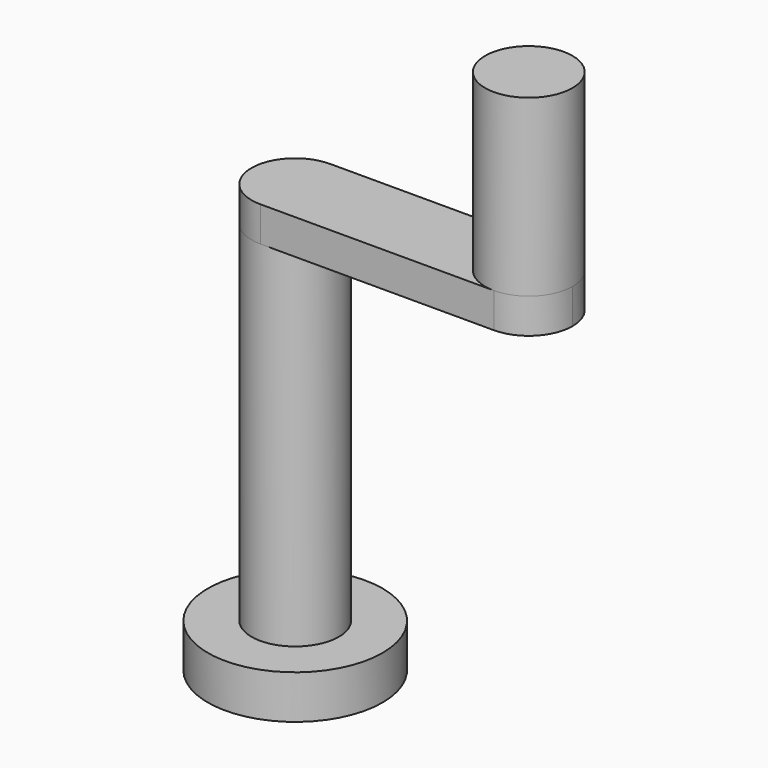
from build123d import *

# Parameters (mm, degrees)
F0_R     = 3.175
F1_DEPTH = 12.7
F2_R     = 6.35
F3_DEPTH = 3.175
F5_DEPTH = 2.54
F6_R     = 3.175
F7_DEPTH = 12.7


with BuildPart() as f1:
    # F0 (on Top) → F1 (new body, symmetric)
    with BuildSketch(Plane.XY):
        Circle(F0_R)
    extrude(amount=F1_DEPTH, both=True)

    # F2 (on face) → F3 (join)
    with BuildSketch(Plane(origin=(0, 0, -12.7), x_dir=(1, 0, 0), z_dir=(0, 0, -1))):
        Circle(F2_R)
    extrude(amount=F3_DEPTH)

    # F4 (on face) → F5 (join)
    with BuildSketch(Plane.XY.offset(12.7)):
        with BuildLine():
            ThreePointArc((16.98045, -3.175), (19.225514, -2.245064), (20.15545, 0))
            ThreePointArc((20.15545, 0), (19.225514, 2.245064), (16.98045, 3.175))
            ThreePointArc((16.98045, 3.175), (13.80545, 0), (16.98045, -3.175))
        make_face()
        with BuildLine():
            ThreePointArc((16.98045, -3.175), (13.80545, 0), (16.98045, 3.175))
            Line((16.98045, 3.175), (0, 3.175))
            ThreePointArc((0, 3.175), (2.245064, 2.245064), (3.175, 0))
            ThreePointArc((3.175, 0), (2.245064, -2.245064), (0, -3.175))
            Line((0, -3.175), (16.98045, -3.175))
        make_face()
        with BuildLine():
            ThreePointArc((3.175, 0), (2.245064, 2.245064), (0, 3.175))
            ThreePointArc((0, 3.175), (-3.175, 0), (0, -3.175))
            ThreePointArc((0, -3.175), (2.245064, -2.245064), (3.175, 0))
        make_face()
    extrude(amount=F5_DEPTH)

    # F6 (on face) → F7 (join)
    with BuildSketch(Plane.XY.offset(15.24)):
        with Locations((16.98045, 0)):
            Circle(F6_R)
    extrude(amount=F7_DEPTH)


solid = f1.part
